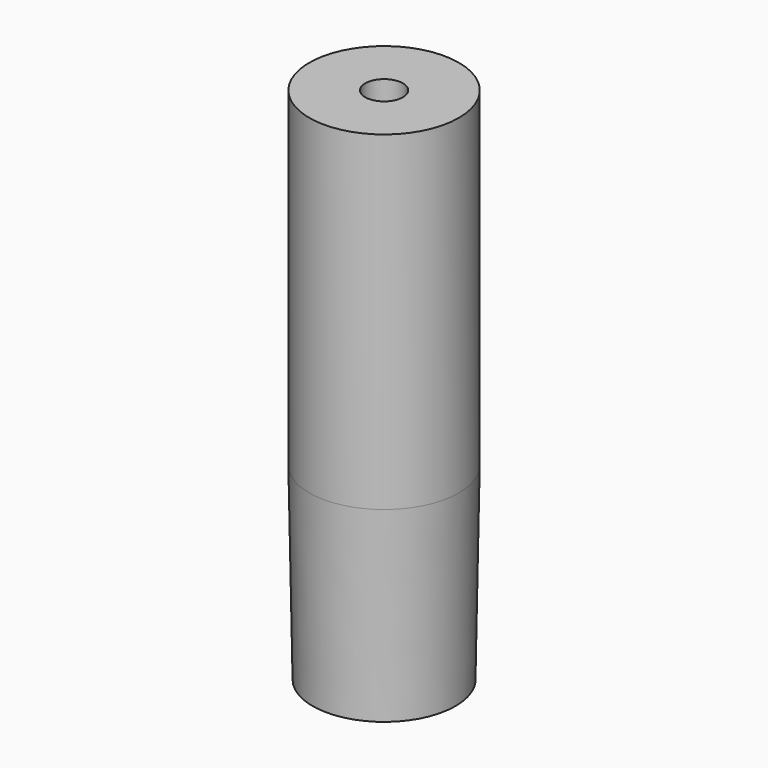
from build123d import *

# Parameters (mm, degrees)
F0_R     = 7.925
F1_DEPTH = 55
F3_SIZE2 = 0.349101
F3_SIZE  = 20
F2_R     = 2
F4_DEPTH = 40


with BuildPart() as f1:
    # F0 (on Top) → F1 (new body)
    with BuildSketch(Plane.XY):
        Circle(F0_R)
    extrude(amount=F1_DEPTH)

    # F3
    f3_edges = [f1.edges().sort_by_distance(p)[0] for p in [
        (-7.925, 0, 0),
    ]]
    chamfer(f3_edges, length=F3_SIZE, length2=F3_SIZE2)

    # F2 (on face) → F4 (cut)
    with BuildSketch(Plane.XY.offset(55)):
        Circle(F2_R)
    extrude(amount=-F4_DEPTH, mode=Mode.SUBTRACT)


solid = f1.part
